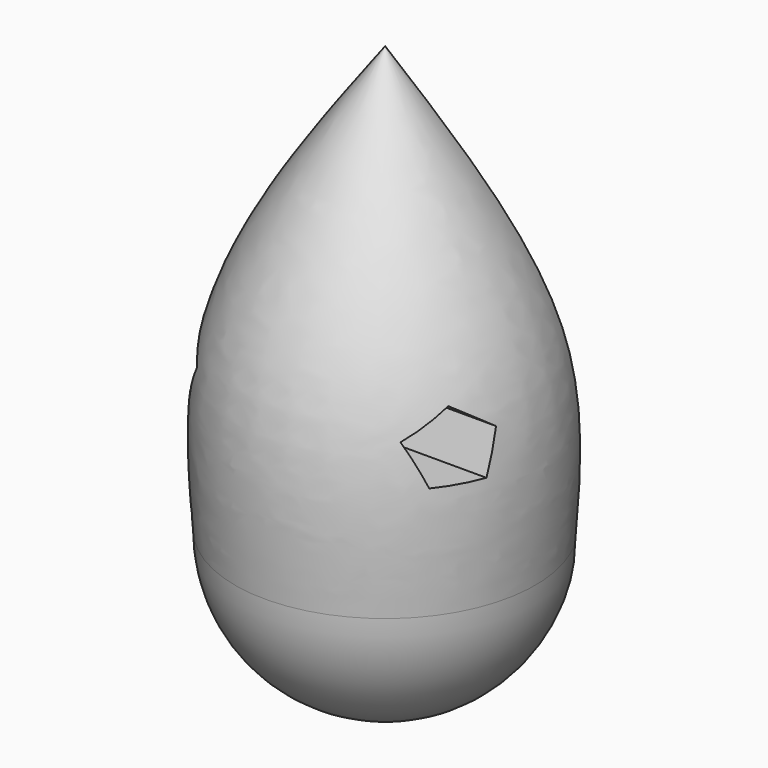
from build123d import *

# Parameters (mm, degrees)
F1_ANGLE_BACK = 260
F1_ANGLE      = 290
F4_DEPTH      = 80


with BuildPart() as f1:
    # F0 (on Front) → F1 (revolve)
    with BuildSketch(Plane.XZ, mode=Mode.PRIVATE) as f1_sk:
        with BuildLine():
            Line((0, 70.9821507335), (0, 25))
            ThreePointArc((0, 25), (17.6776695297, 17.6776695297), (25, 0))
            add(Edge.make_bspline(
                [(25, 0), (25.7729905135, 10.449231781), (27.4753426857, 33.4615095623), (9.7026241041, 57.7321366539), (0, 70.9821507335)],
                knots=[0, 0, 0, 0, 0.4540720341, 1, 1, 1, 1], degree=3))
        make_face()
        with BuildLine():
            Line((0, 25), (0, -25))
            ThreePointArc((0, -25), (17.6776695297, -17.6776695297), (25, 0))
            ThreePointArc((25, 0), (17.6776695297, 17.6776695297), (0, 25))
        make_face()
    revolve(f1_sk.sketch.rotate(Axis((0, 0, 22.9910753667), (0, 0, 1)), -F1_ANGLE_BACK), axis=Axis((0, 0, 22.9910753667), (0, 0, 1)), revolution_arc=F1_ANGLE)

    # F3 (on offset) → F4 (cut)
    with BuildSketch(Plane.YZ.offset(-50)):
        Polygon((-15.8244016312, 19.0178565681), (-8.8184551604, 19.0178565681), (-6.6534986392, 25.680907612), (-12.3214283958, 29.7988996259), (-17.9893581524, 25.680907612), align=None)
    extrude(amount=F4_DEPTH, mode=Mode.SUBTRACT)


solid = f1.part
